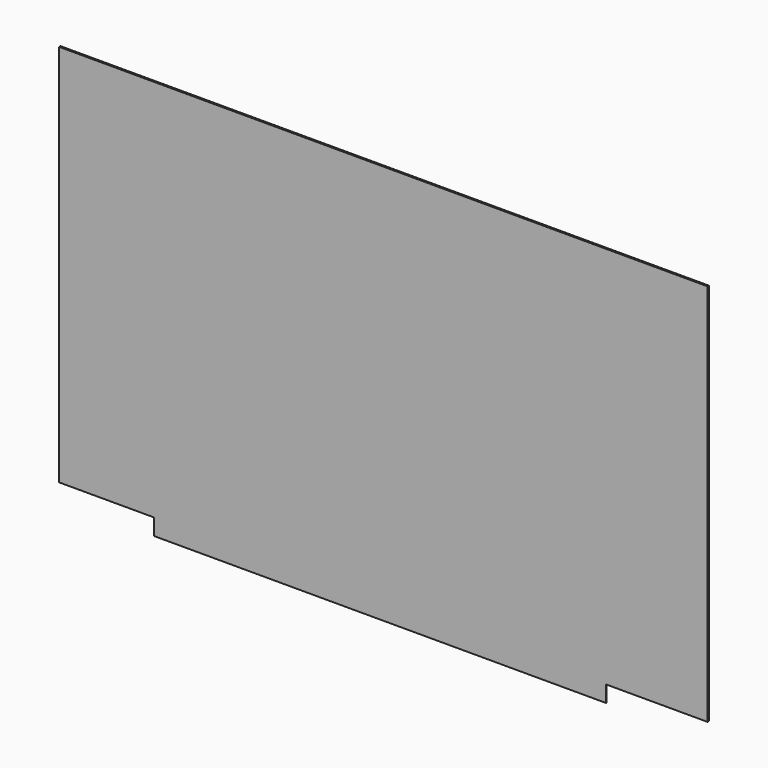
from build123d import *

# Parameters (mm, degrees)
F0_W     = 990.6
F0_H     = 585.7875
F1_DEPTH = 2.5
F2_W     = 690.6
F2_H     = 25
F3_DEPTH = 0.5


with BuildPart() as f1:
    # F0 (on Front) → F1 (new body)
    with BuildSketch(Plane.XZ):
        Rectangle(F0_W, F0_H)
    extrude(amount=F1_DEPTH)

    # F2 (on face) → F3 (join)
    with BuildSketch(Plane.XZ.offset(2.5)):
        with Locations((-5, -305.39375)):
            Rectangle(F2_W, F2_H)
    extrude(amount=-F3_DEPTH)


solid = f1.part
